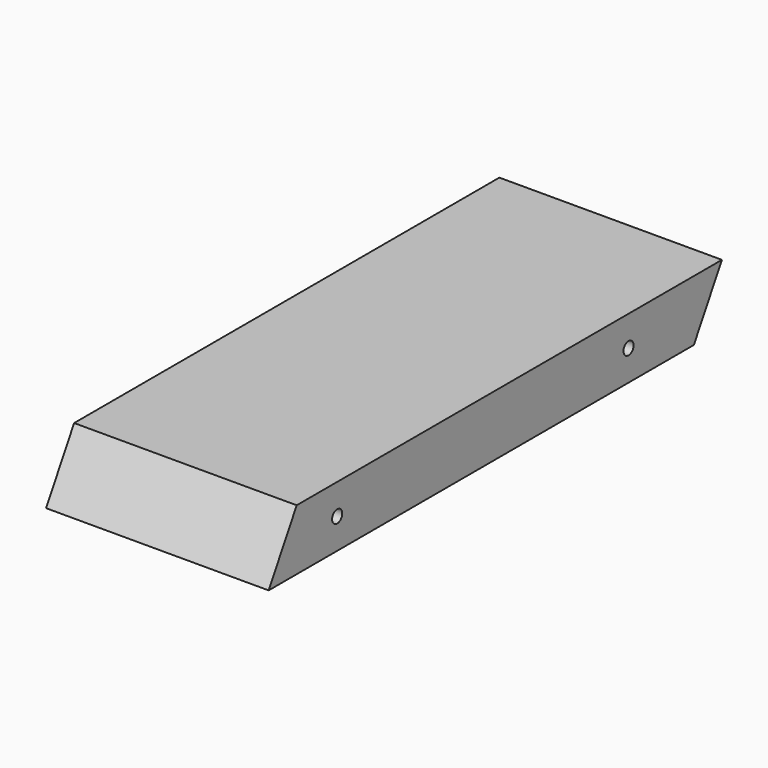
from build123d import *

# Parameters (mm, degrees)
F0_W          = 139.7
F0_H          = 38.1
F1_DEPTH      = 177.8
F1_DEPTH_BACK = 177.8
F3_DEPTH      = 139.7
F4_R          = 3.96875
F5_DEPTH      = 139.701


with BuildPart() as f1:
    # F0 (on Front) → F1 (new body, two sides)
    with BuildSketch(Plane.XZ) as f1_sk:
        Rectangle(F0_W, F0_H)
    extrude(amount=F1_DEPTH)
    extrude(f1_sk.sketch, amount=-F1_DEPTH_BACK)

    # F2 (on face) → F3 (cut, through all)
    with BuildSketch(Plane(origin=(-69.85, 0, 0), x_dir=(0, -1, 0), z_dir=(-1, 0, 0))):
        Polygon((-155.802955, -19.05), (-177.8, 19.05), (-177.8, -19.05), align=None)
        Polygon((177.8, -19.05), (177.8, 19.05), (155.802955, 19.05), align=None)
    extrude(amount=-F3_DEPTH, mode=Mode.SUBTRACT)

    # F4 (on face) → F5 (cut, through all)
    with BuildSketch(Plane(origin=(-69.85, 0, 0), x_dir=(0, -1, 0), z_dir=(-1, 0, 0))):
        with Locations((-104.547045, 0)):
            Circle(F4_R)
        with Locations((124.052955, 0)):
            Circle(F4_R)
    extrude(amount=-F5_DEPTH, mode=Mode.SUBTRACT)


solid = f1.part
